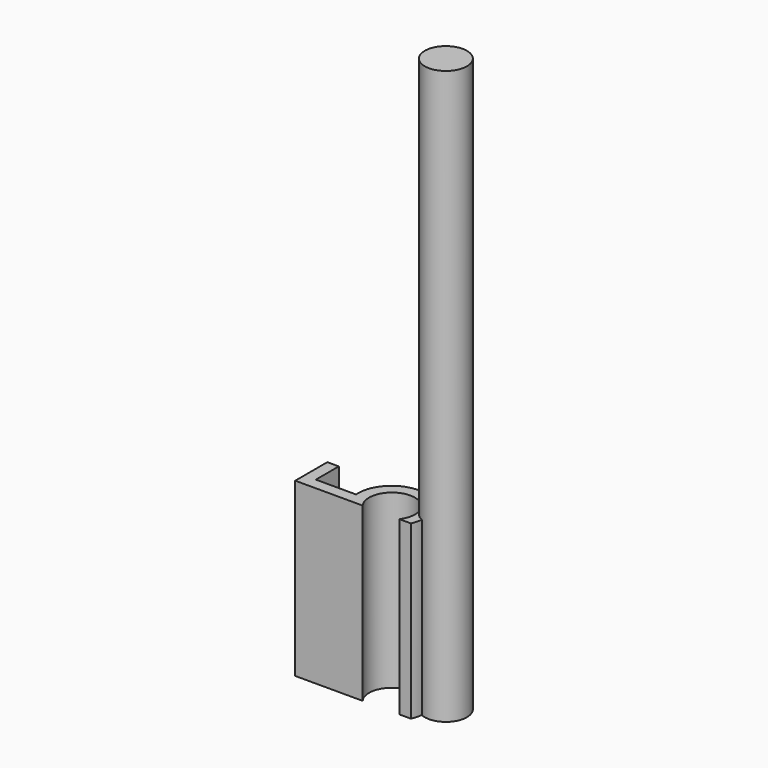
from build123d import *

# Parameters (mm, degrees)
F1_DEPTH = 76.2
F2_R     = 9.333674
F3_DEPTH = 254


with BuildPart() as f1:
    # F0 (on Top) → F1 (new body)
    with BuildSketch(Plane.XY):
        with BuildLine():
            Line((-41.087765, 30.226878), (-46.167765, 30.226878))
            Line((-46.167765, 30.226878), (-46.167765, 12.446878))
            Line((-46.167765, 12.446878), (-16.285702, 12.446878))
            ThreePointArc((-16.285702, 12.446878), (-8.142851, 28.683026), (0, 12.446878))
            Line((0, 12.446878), (5.08, 12.446878))
            ThreePointArc((5.08, 12.446878), (-5.831418, 33.329758), (-23.307765, 17.526878))
            Line((-23.307765, 17.526878), (-41.087765, 17.526878))
            Line((-41.087765, 17.526878), (-41.087765, 30.226878))
        make_face()
    extrude(amount=F1_DEPTH)

    # F2 (on Top) → F3 (join)
    with BuildSketch(Plane.XY):
        with Locations((10.232405, 25.396086)):
            Circle(F2_R)
    extrude(amount=F3_DEPTH)


solid = f1.part
